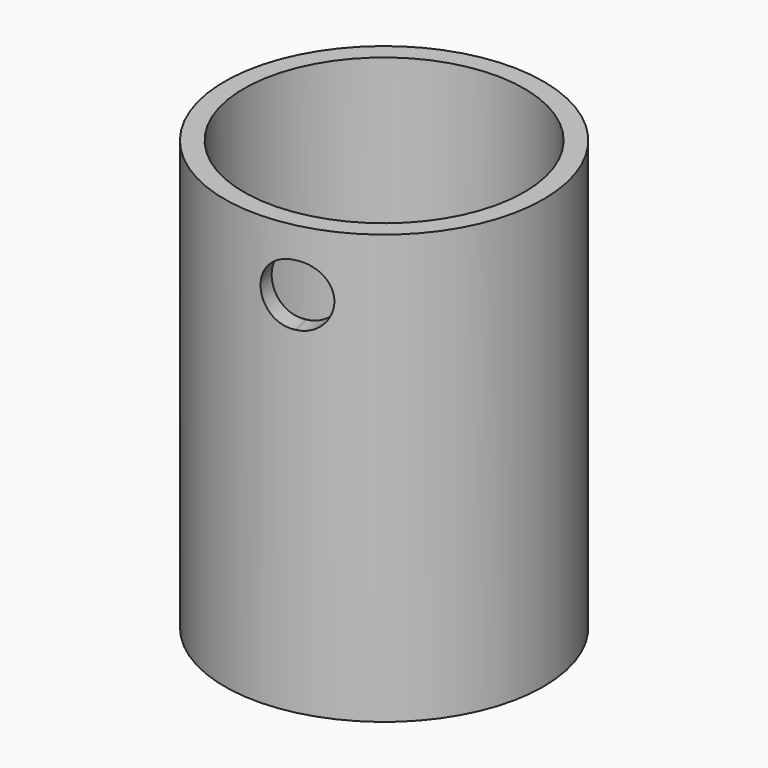
from build123d import *

# Parameters (mm, degrees)
F0_R      = 10.31875
F1_DEPTH  = 27.7622
F2_T      = -1.2446
F3_R      = 10.0203
F4_DEPTH  = 2.3622
F8_R      = 1.9812
F9_DEPTH  = 12.443506
F10_R     = 1.9812
F11_DEPTH = 12.308541
F13_R     = 1.9812
F14_DEPTH = 12.376495


with BuildPart() as f1:
    # F0 (on Top) → F1 (new body)
    with BuildSketch(Plane.XY):
        Circle(F0_R)
    extrude(amount=F1_DEPTH)

    # F2
    f2_openings = [f1.faces().sort_by_distance(p)[0] for p in [
        (0, 0, 27.7622),
        (0, 0, 0),
    ]]
    offset(amount=F2_T, openings=f2_openings)

    # F3 (on face) → F4 (cut)
    with BuildSketch(Plane(origin=(0, 0, 0), x_dir=(1, 0, 0), z_dir=(0, 0, -1))):
        Circle(F3_R)
    extrude(amount=-F4_DEPTH, mode=Mode.SUBTRACT)

    # F8 (on face) → F9 (cut, through all)
    with BuildSketch(Plane(origin=(0, 0, 0), x_dir=(-0.97237, -0.233445, 0), z_dir=(-0.233445, 0.97237, 0))):
        with Locations((0, 23.79345)):
            Circle(F8_R)
    extrude(amount=-F9_DEPTH, mode=Mode.SUBTRACT)

    # F10 (on face) → F11 (cut, through all)
    with BuildSketch(Plane(origin=(0, 0, 0), x_dir=(-0.976296, -0.21644, 0), z_dir=(-0.21644, 0.976296, 0))):
        with Locations((0, 23.79345)):
            Circle(F10_R)
    extrude(amount=-F11_DEPTH, mode=Mode.SUBTRACT)

    # F13 (on face) → F14 (cut, through all)
    with BuildSketch(Plane(origin=(0, 0, 0), x_dir=(-0.97437, -0.224951, 0), z_dir=(-0.224951, 0.97437, 0))):
        with Locations((0, 23.79345)):
            Circle(F13_R)
    extrude(amount=-F14_DEPTH, mode=Mode.SUBTRACT)


solid = f1.part
